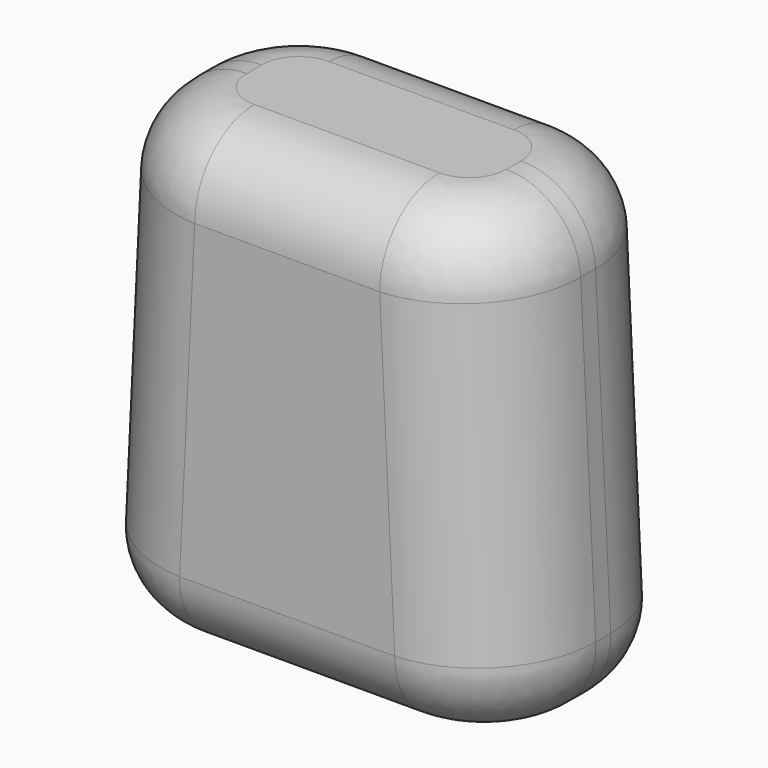
from build123d import *

# Parameters (mm, degrees)
F1_DEPTH = 16.51
F2_R     = 7.62
F3_R     = 7.62
F4_R     = 5.08
F5_R     = 5.08
F6_SCALE = 0.75


with BuildPart() as f1:
    # F0 (on Front) → F1 (new body)
    with BuildSketch(Plane.XZ):
        Polygon((-13.8489005984, 31.7138343761), (-15.3638953721, 0), (15.0566186512, 0), (13.5416238775, 31.7138343761), align=None)
    extrude(amount=F1_DEPTH)

    # F2
    f2_edges = [f1.edges().sort_by_distance(p)[0] for p in [
        (-14.606398, -16.51, 15.856917),
    ]]
    fillet(f2_edges, radius=F2_R)

    # F3
    f3_edges = [f1.edges().sort_by_distance(p)[0] for p in [
        (14.299121, -16.51, 15.856917),
        (14.299121, 0, 15.856917),
        (-14.606398, 0, 15.856917),
    ]]
    fillet(f3_edges, radius=F3_R)

    # F4
    f4_edges = [f1.edges().sort_by_distance(p)[0] for p in [
        (-0.153638, 0, 0),
    ]]
    fillet(f4_edges, radius=F4_R)

    # F5
    f5_edges = [f1.edges().sort_by_distance(p)[0] for p in [
        (-0.153638, -16.51, 31.713834),
    ]]
    fillet(f5_edges, radius=F5_R)


with BuildPart() as f1_1:
    # F6: moved
    add(f1.part.scale(F6_SCALE))


solid = f1_1.part
